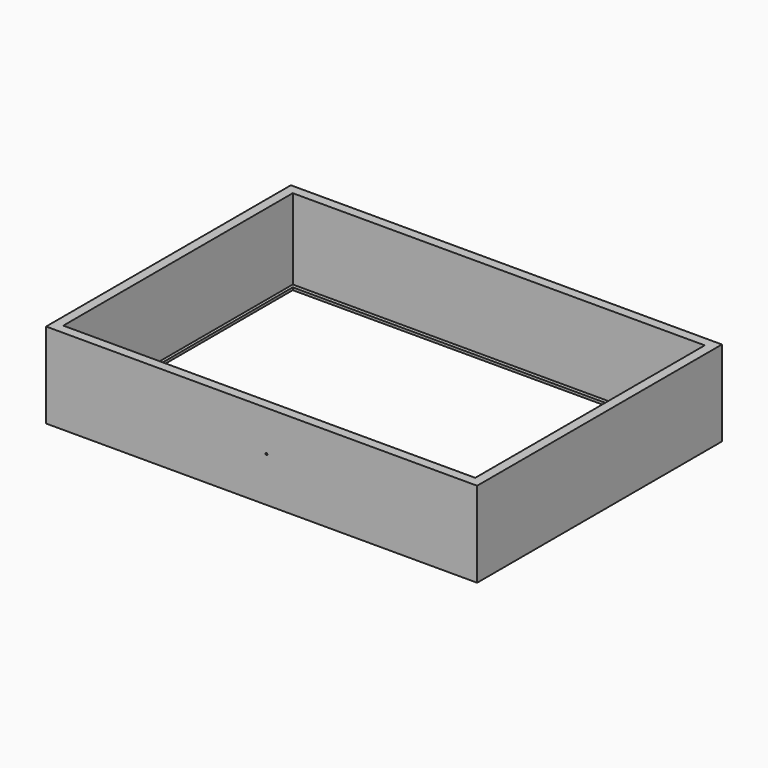
from build123d import *

# Parameters (mm, degrees)
F0_W      = 858
F0_H      = 170
F1_DEPTH  = 19
F2_W      = 19
F2_H      = 170
F3_DEPTH  = 590
F4_W      = 19
F4_H      = 170
F5_DEPTH  = 824
F6_W      = 820
F6_H      = 5
F7_DEPTH  = 8
F8_W      = 820
F8_H      = 5
F9_DEPTH  = 8
F11_DEPTH = 8
F13_DEPTH = 8
F14_R     = 2
F15_DEPTH = 19


with BuildPart() as f1:
    # F0 (on Front) → F1 (new body)
    with BuildSketch(Plane.XZ):
        with Locations((-9.432035, -4.196442)):
            Rectangle(F0_W, F0_H)
    extrude(amount=F1_DEPTH)

    # F2 (on face) → F3 (join)
    with BuildSketch(Plane(origin=(0, 0, 0), x_dir=(-1, 0, 0), z_dir=(0, 1, 0))):
        with Locations((-410.067965, -4.196442)):
            Rectangle(F2_W, F2_H)
        with Locations((428.932035, -4.196442)):
            Rectangle(F2_W, F2_H)
    extrude(amount=F3_DEPTH)

    # F4 (on face) → F5 (join)
    with BuildSketch(Plane(origin=(400.567965, 0, 0), x_dir=(0, -1, 0), z_dir=(-1, 0, 0))):
        with Locations((-580.5, -4.196442)):
            Rectangle(F4_W, F4_H)
    extrude(amount=F5_DEPTH)

    # F6 (on face) → F7 (cut)
    with BuildSketch(Plane.XZ.offset(-571)):
        with Locations((-9.432035, -81.696442)):
            Rectangle(F6_W, F6_H)
    extrude(amount=-F7_DEPTH, mode=Mode.SUBTRACT)

    # F8 (on face) → F9 (cut)
    with BuildSketch(Plane(origin=(0, 0, 0), x_dir=(-1, 0, 0), z_dir=(0, 1, 0))):
        with Locations((9.432035, -81.696442)):
            Rectangle(F8_W, F8_H)
    extrude(amount=-F9_DEPTH, mode=Mode.SUBTRACT)

    # F10 (on face) → F11 (cut)
    with BuildSketch(Plane.YZ.offset(-419.432035)):
        Polygon((0, -79.196442), (-8, -79.196442), (-8, -84.196442), (0, -84.196442), (571, -84.196442), (579, -84.196442), (579, -79.196442), (571, -79.196442), align=None)
    extrude(amount=-F11_DEPTH, mode=Mode.SUBTRACT)

    # F12 (on face) → F13 (cut)
    with BuildSketch(Plane(origin=(400.567965, 0, 0), x_dir=(0, -1, 0), z_dir=(-1, 0, 0))):
        Polygon((8, -84.196442), (8, -79.196442), (0, -79.196442), (-571, -79.196442), (-579, -79.196442), (-579, -84.196442), (-571, -84.196442), (0, -84.196442), align=None)
    extrude(amount=-F13_DEPTH, mode=Mode.SUBTRACT)

    # F14 (on face) → F15 (cut)
    with BuildSketch(Plane.XZ.offset(19)):
        Circle(F14_R)
    extrude(amount=-F15_DEPTH, mode=Mode.SUBTRACT)


solid = f1.part
